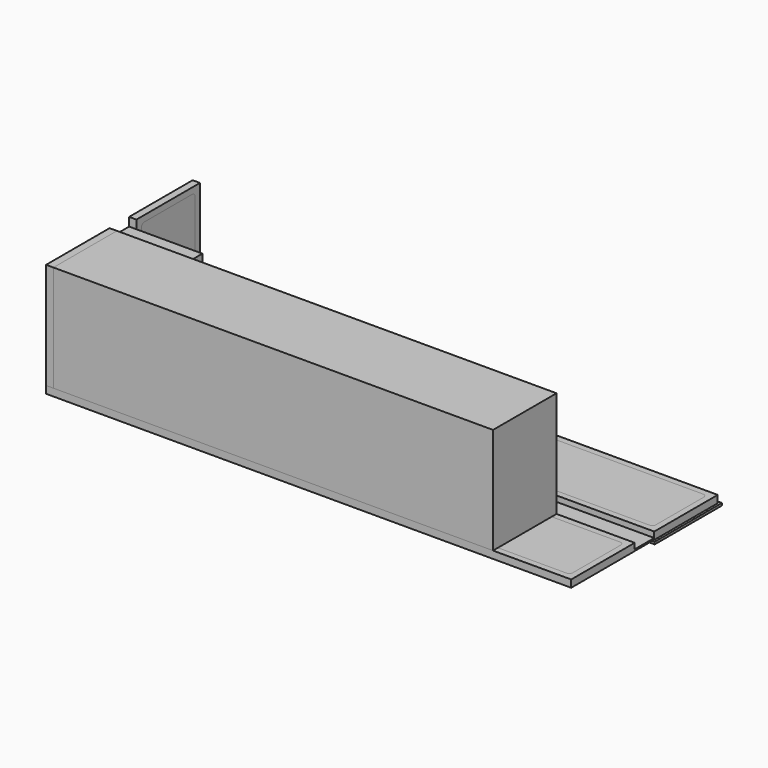
from build123d import *

# Parameters (mm, degrees)
F0_W      = 4300
F0_H      = 650
F1_DEPTH  = 60
F2_R      = 15
F3_DEPTH  = 60.001
F5_DEPTH  = 2
F7_DEPTH  = 190
F9_DEPTH  = 2
F11_DEPTH = 150
F12_W     = 804
F12_H     = 524
F13_DEPTH = 5
F14_W     = 780
F14_H     = 500
F15_DEPTH = 247.001
F16_W     = 800
F16_H     = 520
F17_DEPTH = 5
F18_W     = 777
F18_H     = 497
F19_DEPTH = 25
F20_W     = 700
F20_H     = 350
F21_DEPTH = 25
F22_W     = 360
F22_H     = 235
F23_DEPTH = 120
F26_DEPTH = 2
F28_DEPTH = 30
F29_DEPTH = 30
F30_W     = 4300
F30_H     = 650
F31_DEPTH = 60
F33_DEPTH = 30
F34_DEPTH = 30
F36_DEPTH = 200
F37_R     = 1
F38_W     = 600
F38_H     = 200
F39_DEPTH = 800
F40_W     = 180
F40_H     = 145
F41_DEPTH = 590
F42_W     = 60
F42_H     = 650
F43_DEPTH = 870
F45_DEPTH = 30
F46_DEPTH = 30
F49_W     = 2800
F49_H     = 688
F50_DEPTH = 19
F51_W     = 1538
F51_H     = 688
F52_DEPTH = 19
F54_W     = 650
F54_H     = 60
F55_DEPTH = 19
F57_W     = 650
F57_H     = 870
F58_DEPTH = 3600


with BuildPart() as f1:
    # F0 (on Top) → F1 (new body)
    with BuildSketch(Plane.XY):
        with Locations((2150, 325)):
            Rectangle(F0_W, F0_H)
    extrude(amount=F1_DEPTH)

    # F2 (on face) → F3 (cut, through all)
    with BuildSketch(Plane.XY.offset(60)):
        with BuildLine():
            Line((3278, 525), (2617, 525))
            ThreePointArc((2617, 525), (2601.4436508139, 518.5563491861), (2595, 503))
            Line((2595, 503), (2595, 147))
            ThreePointArc((2595, 147), (2601.4436508139, 131.4436508139), (2617, 125))
            Line((2617, 125), (3278, 125))
            ThreePointArc((3278, 125), (3293.5563491861, 131.4436508139), (3300, 147))
            Line((3300, 147), (3300, 503))
            ThreePointArc((3300, 503), (3293.5563491861, 518.5563491861), (3278, 525))
        make_face()
        with Locations((2785, 565)):
            Circle(F2_R)
    extrude(amount=-F3_DEPTH, mode=Mode.SUBTRACT)

    # F12 (on face) → F13 (cut)
    with BuildSketch(Plane(origin=(0, 0, 0), x_dir=(1, 0, 0), z_dir=(0, 0, -1))):
        with Locations((1402, -325)):
            Rectangle(F12_W, F12_H)
    extrude(amount=-F13_DEPTH, mode=Mode.SUBTRACT)

    # F14 (on face) → F15 (cut, through all)
    with BuildSketch(Plane(origin=(0, 0, 5), x_dir=(1, 0, 0), z_dir=(0, 0, -1))):
        with Locations((1402, -325)):
            Rectangle(F14_W, F14_H)
    extrude(amount=-F15_DEPTH, mode=Mode.SUBTRACT)

    # F27 (on face) → F28 (cut)
    with BuildSketch(Plane.XY.offset(60)):
        with BuildLine():
            Line((3420, 50), (4220, 50))
            ThreePointArc((4220, 50), (4241.2132034356, 58.7867965644), (4250, 80))
            Line((4250, 80), (4250, 570))
            ThreePointArc((4250, 570), (4241.2132034356, 591.2132034356), (4220, 600))
            Line((4220, 600), (3420, 600))
            ThreePointArc((3420, 600), (3398.7867965644, 591.2132034356), (3390, 570))
            Line((3390, 570), (3390, 80))
            ThreePointArc((3390, 80), (3398.7867965644, 58.7867965644), (3420, 50))
        make_face()
        with BuildLine():
            Line((1892, 50), (2475, 50))
            ThreePointArc((2475, 50), (2496.2132034356, 58.7867965644), (2505, 80))
            Line((2505, 80), (2505, 570))
            ThreePointArc((2505, 570), (2496.2132034356, 591.2132034356), (2475, 600))
            Line((2475, 600), (1892, 600))
            ThreePointArc((1892, 600), (1870.7867965644, 591.2132034356), (1862, 570))
            Line((1862, 570), (1862, 80))
            ThreePointArc((1862, 80), (1870.7867965644, 58.7867965644), (1892, 50))
        make_face()
        with BuildLine():
            Line((80, 50), (912, 50))
            ThreePointArc((912, 50), (933.2132034356, 58.7867965644), (942, 80))
            Line((942, 80), (942, 570))
            ThreePointArc((942, 570), (933.2132034356, 591.2132034356), (912, 600))
            Line((912, 600), (80, 600))
            ThreePointArc((80, 600), (58.7867965644, 591.2132034356), (50, 570))
            Line((50, 570), (50, 80))
            ThreePointArc((50, 80), (58.7867965644, 58.7867965644), (80, 50))
        make_face()
    extrude(amount=-F28_DEPTH, mode=Mode.SUBTRACT)


with BuildPart() as f5:
    # F4 (on face) → F5 (new body)
    with BuildSketch(Plane.XY.offset(60)):
        with BuildLine():
            Line((2597, 105), (3298, 105))
            ThreePointArc((3298, 105), (3313.5563491861, 111.4436508139), (3320, 127))
            Line((3320, 127), (3320, 523))
            ThreePointArc((3320, 523), (3313.5563491861, 538.5563491861), (3298, 545))
            Line((3298, 545), (2597, 545))
            ThreePointArc((2597, 545), (2581.4436508139, 538.5563491861), (2575, 523))
            Line((2575, 523), (2575, 127))
            ThreePointArc((2575, 127), (2581.4436508139, 111.4436508139), (2597, 105))
        make_face()
        with BuildLine():
            Line((2775, 503), (2775, 172))
            ThreePointArc((2775, 172), (2768.5563491861, 156.4436508139), (2753, 150))
            Line((2753, 150), (2617, 150))
            ThreePointArc((2617, 150), (2601.4436508139, 156.4436508139), (2595, 172))
            Line((2595, 172), (2595, 503))
            ThreePointArc((2595, 503), (2601.4436508139, 518.5563491861), (2617, 525))
            Line((2617, 525), (2753, 525))
            ThreePointArc((2753, 525), (2768.5563491861, 518.5563491861), (2775, 503))
        make_face(mode=Mode.SUBTRACT)
        with BuildLine():
            ThreePointArc((2817, 125), (2801.4436508139, 131.4436508139), (2795, 147))
            Line((2795, 147), (2795, 503))
            ThreePointArc((2795, 503), (2801.4436508139, 518.5563491861), (2817, 525))
            Line((2817, 525), (3278, 525))
            ThreePointArc((3278, 525), (3293.5563491861, 518.5563491861), (3300, 503))
            Line((3300, 503), (3300, 147))
            ThreePointArc((3300, 147), (3293.5563491861, 131.4436508139), (3278, 125))
            Line((3278, 125), (2817, 125))
        make_face(mode=Mode.SUBTRACT)
    extrude(amount=F5_DEPTH)

    # F6 (on face) → F7 (join)
    with BuildSketch(Plane.XY.offset(62)):
        with BuildLine():
            Line((3302, 147), (3302, 503))
            ThreePointArc((3302, 503), (3294.9705627485, 519.9705627485), (3278, 527))
            Line((3278, 527), (2817, 527))
            ThreePointArc((2817, 527), (2800.0294372515, 519.9705627485), (2793, 503))
            Line((2793, 503), (2793, 147))
            ThreePointArc((2793, 147), (2800.0294372515, 130.0294372515), (2817, 123))
            Line((2817, 123), (3278, 123))
            ThreePointArc((3278, 123), (3294.9705627485, 130.0294372515), (3302, 147))
        make_face()
        with BuildLine():
            Line((2817, 525), (3278, 525))
            ThreePointArc((3278, 525), (3293.5563491861, 518.5563491861), (3300, 503))
            Line((3300, 503), (3300, 147))
            ThreePointArc((3300, 147), (3293.5563491861, 131.4436508139), (3278, 125))
            Line((3278, 125), (2817, 125))
            ThreePointArc((2817, 125), (2801.4436508139, 131.4436508139), (2795, 147))
            Line((2795, 147), (2795, 503))
            ThreePointArc((2795, 503), (2801.4436508139, 518.5563491861), (2817, 525))
        make_face(mode=Mode.SUBTRACT)
    extrude(amount=F7_DEPTH)

    # F8 (on face) → F9 (join)
    with BuildSketch(Plane.XY.offset(252)):
        with BuildLine():
            ThreePointArc((3300, 503), (3293.5563491861, 518.5563491861), (3278, 525))
            Line((3278, 525), (2817, 525))
            ThreePointArc((2817, 525), (2801.4436508139, 518.5563491861), (2795, 503))
            Line((2795, 503), (2795, 147))
            ThreePointArc((2795, 147), (2801.4436508139, 131.4436508139), (2817, 125))
            Line((2817, 125), (3278, 125))
            ThreePointArc((3278, 125), (3293.5563491861, 131.4436508139), (3300, 147))
            Line((3300, 147), (3300, 503))
        make_face()
    extrude(amount=-F9_DEPTH)

    # F10 (on face) → F11 (join)
    with BuildSketch(Plane.XY.offset(62)):
        with BuildLine():
            Line((2595, 503), (2595, 172))
            ThreePointArc((2595, 172), (2601.4436508139, 156.4436508139), (2617, 150))
            Line((2617, 150), (2753, 150))
            ThreePointArc((2753, 150), (2768.5563491861, 156.4436508139), (2775, 172))
            Line((2775, 172), (2775, 503))
            ThreePointArc((2775, 503), (2768.5563491861, 518.5563491861), (2753, 525))
            Line((2753, 525), (2617, 525))
            ThreePointArc((2617, 525), (2601.4436508139, 518.5563491861), (2595, 503))
        make_face()
        with BuildLine():
            ThreePointArc((2773, 172), (2767.1421356237, 157.8578643763), (2753, 152))
            Line((2753, 152), (2617, 152))
            ThreePointArc((2617, 152), (2602.8578643763, 157.8578643763), (2597, 172))
            Line((2597, 172), (2597, 503))
            ThreePointArc((2597, 503), (2602.8578643763, 517.1421356237), (2617, 523))
            Line((2617, 523), (2753, 523))
            ThreePointArc((2753, 523), (2767.1421356237, 517.1421356237), (2773, 503))
            Line((2773, 503), (2773, 172))
        make_face(mode=Mode.SUBTRACT)
    extrude(amount=F11_DEPTH)

    # F25 (on face) → F26 (join)
    with BuildSketch(Plane.XY.offset(212)):
        with BuildLine():
            Line((2617, 150), (2753, 150))
            ThreePointArc((2753, 150), (2768.5563491861, 156.4436508139), (2775, 172))
            Line((2775, 172), (2775, 503))
            ThreePointArc((2775, 503), (2768.5563491861, 518.5563491861), (2753, 525))
            Line((2753, 525), (2617, 525))
            ThreePointArc((2617, 525), (2601.4436508139, 518.5563491861), (2595, 503))
            Line((2595, 503), (2595, 172))
            ThreePointArc((2595, 172), (2601.4436508139, 156.4436508139), (2617, 150))
        make_face()
    extrude(amount=F26_DEPTH)


with BuildPart() as f17:
    # F16 (on face) → F17 (new body)
    with BuildSketch(Plane(origin=(0, 0, 0), x_dir=(1, 0, 0), z_dir=(0, 0, -1))):
        with Locations((1402, -325)):
            Rectangle(F16_W, F16_H)
    extrude(amount=-F17_DEPTH)

    # F18 (on face) → F19 (join)
    with BuildSketch(Plane.XY.offset(5)):
        with Locations((1402, 325)):
            Rectangle(F18_W, F18_H)
    extrude(amount=F19_DEPTH)

    # F20 (on face) → F21 (join)
    with BuildSketch(Plane.XY.offset(30)):
        with Locations((1403.5, 358.5)):
            Rectangle(F20_W, F20_H)
    extrude(amount=F21_DEPTH)

    # F22 (on face) → F23 (join)
    with BuildSketch(Plane.XY.offset(55)):
        with Locations((1273.5, 376)):
            Rectangle(F22_W, F22_H)
    extrude(amount=F23_DEPTH)


with BuildPart() as f29:
    # F27 (on face) → F29 (new body)
    with BuildSketch(Plane.XY.offset(60)):
        with BuildLine():
            Line((3420, 50), (4220, 50))
            ThreePointArc((4220, 50), (4241.2132034356, 58.7867965644), (4250, 80))
            Line((4250, 80), (4250, 570))
            ThreePointArc((4250, 570), (4241.2132034356, 591.2132034356), (4220, 600))
            Line((4220, 600), (3420, 600))
            ThreePointArc((3420, 600), (3398.7867965644, 591.2132034356), (3390, 570))
            Line((3390, 570), (3390, 80))
            ThreePointArc((3390, 80), (3398.7867965644, 58.7867965644), (3420, 50))
        make_face()
    extrude(amount=-F29_DEPTH)


with BuildPart() as f29b:
    # F27 (on face) → F29, piece 2 (new body)
    with BuildSketch(Plane.XY.offset(60)):
        with BuildLine():
            Line((1892, 50), (2475, 50))
            ThreePointArc((2475, 50), (2496.2132034356, 58.7867965644), (2505, 80))
            Line((2505, 80), (2505, 570))
            ThreePointArc((2505, 570), (2496.2132034356, 591.2132034356), (2475, 600))
            Line((2475, 600), (1892, 600))
            ThreePointArc((1892, 600), (1870.7867965644, 591.2132034356), (1862, 570))
            Line((1862, 570), (1862, 80))
            ThreePointArc((1862, 80), (1870.7867965644, 58.7867965644), (1892, 50))
        make_face()
    extrude(amount=-F29_DEPTH)


with BuildPart() as f29c:
    # F27 (on face) → F29, piece 3 (new body)
    with BuildSketch(Plane.XY.offset(60)):
        with BuildLine():
            Line((80, 50), (912, 50))
            ThreePointArc((912, 50), (933.2132034356, 58.7867965644), (942, 80))
            Line((942, 80), (942, 570))
            ThreePointArc((942, 570), (933.2132034356, 591.2132034356), (912, 600))
            Line((912, 600), (80, 600))
            ThreePointArc((80, 600), (58.7867965644, 591.2132034356), (50, 570))
            Line((50, 570), (50, 80))
            ThreePointArc((50, 80), (58.7867965644, 58.7867965644), (80, 50))
        make_face()
    extrude(amount=-F29_DEPTH)


with BuildPart() as f31:
    # F30 (on face) → F31 (new body)
    with BuildSketch(Plane(origin=(0, 0, 0), x_dir=(1, 0, 0), z_dir=(0, 0, -1))):
        with Locations((2150, -1175)):
            Rectangle(F30_W, F30_H)
    extrude(amount=-F31_DEPTH)

    # F32 (on face) → F33 (cut)
    with BuildSketch(Plane.XY.offset(60)):
        with BuildLine():
            Line((4220, 1450), (80, 1450))
            ThreePointArc((80, 1450), (58.7867965644, 1441.2132034356), (50, 1420))
            Line((50, 1420), (50, 930))
            ThreePointArc((50, 930), (58.7867965644, 908.7867965644), (80, 900))
            Line((80, 900), (4220, 900))
            ThreePointArc((4220, 900), (4241.2132034356, 908.7867965644), (4250, 930))
            Line((4250, 930), (4250, 1420))
            ThreePointArc((4250, 1420), (4241.2132034356, 1441.2132034356), (4220, 1450))
        make_face()
    extrude(amount=-F33_DEPTH, mode=Mode.SUBTRACT)


with BuildPart() as f34:
    # F32 (on face) → F34 (new body)
    with BuildSketch(Plane.XY.offset(60)):
        with BuildLine():
            Line((4220, 1450), (80, 1450))
            ThreePointArc((80, 1450), (58.7867965644, 1441.2132034356), (50, 1420))
            Line((50, 1420), (50, 930))
            ThreePointArc((50, 930), (58.7867965644, 908.7867965644), (80, 900))
            Line((80, 900), (4220, 900))
            ThreePointArc((4220, 900), (4241.2132034356, 908.7867965644), (4250, 930))
            Line((4250, 930), (4250, 1420))
            ThreePointArc((4250, 1420), (4241.2132034356, 1441.2132034356), (4220, 1450))
        make_face()
    extrude(amount=-F34_DEPTH)


with BuildPart() as f36:
    # F35 (on face) → F36 (new body)
    with BuildSketch(Plane(origin=(0, 650, 0), x_dir=(-1, 0, 0), z_dir=(0, 1, 0))):
        Polygon((0, 0), (0, 60.8741641045), (-13.5, 60.8741641045), (-13.5, 13.5), (-4300, 13.5), (-4300, 0), align=None)
    extrude(amount=F36_DEPTH)

    # F37
    f37_edges = [f36.edges().sort_by_distance(p)[0] for p in [
        (2150, 850, 0),
        (0, 850, 30.437082),
        (0, 750, 0),
        (2150, 650, 0),
        (0, 650, 30.437082),
        (4300, 750, 0),
    ]]
    fillet(f37_edges, radius=F37_R)


with BuildPart() as f39:
    # F38 (on face) → F39 (new body)
    with BuildSketch(Plane.XY.offset(60)):
        with Locations((300, 750)):
            Rectangle(F38_W, F38_H)
    extrude(amount=F39_DEPTH)

    # F40 (on face) → F41 (cut)
    with BuildSketch(Plane(origin=(0, 0, 0), x_dir=(0, -1, 0), z_dir=(-1, 0, 0))):
        with Locations((-750, 148.3741641045)):
            Rectangle(F40_W, F40_H)
        with Locations((-750, 303.3741641045)):
            Rectangle(F40_W, F40_H)
        with Locations((-750, 458.3741641045)):
            Rectangle(F40_W, F40_H)
        with Locations((-750, 613.3741641045)):
            Rectangle(F40_W, F40_H)
        with Locations((-750, 768.3741641045)):
            Rectangle(F40_W, F40_H)
    extrude(amount=-F41_DEPTH, mode=Mode.SUBTRACT)


with BuildPart() as f43:
    # F42 (on face) → F43 (new body)
    with BuildSketch(Plane.XY.offset(60)):
        with Locations((30, 325)):
            Rectangle(F42_W, F42_H)
    extrude(amount=F43_DEPTH)

    # F44 (on face) → F45 (cut)
    with BuildSketch(Plane.YZ.offset(60)):
        with BuildLine():
            Line((570, 880), (80, 880))
            ThreePointArc((80, 880), (58.7867965644, 871.2132034356), (50, 850))
            Line((50, 850), (50, 140))
            ThreePointArc((50, 140), (58.7867965644, 118.7867965644), (80, 110))
            Line((80, 110), (570, 110))
            ThreePointArc((570, 110), (591.2132034356, 118.7867965644), (600, 140))
            Line((600, 140), (600, 850))
            ThreePointArc((600, 850), (591.2132034356, 871.2132034356), (570, 880))
        make_face()
    extrude(amount=-F45_DEPTH, mode=Mode.SUBTRACT)


with BuildPart() as f46:
    # F44 (on face) → F46 (new body)
    with BuildSketch(Plane.YZ.offset(60)):
        with BuildLine():
            Line((570, 880), (80, 880))
            ThreePointArc((80, 880), (58.7867965644, 871.2132034356), (50, 850))
            Line((50, 850), (50, 140))
            ThreePointArc((50, 140), (58.7867965644, 118.7867965644), (80, 110))
            Line((80, 110), (570, 110))
            ThreePointArc((570, 110), (591.2132034356, 118.7867965644), (600, 140))
            Line((600, 140), (600, 850))
            ThreePointArc((600, 850), (591.2132034356, 871.2132034356), (570, 880))
        make_face()
    extrude(amount=-F46_DEPTH)


with BuildPart() as f47_1:
    # F47: copy of F43
    add(f43.part.moved(Location((0, 850, 0))))


with BuildPart() as f48_1:
    # F48: copy of F46
    add(f46.part.moved(Location((0, 850, 0))))


with BuildPart() as f50:
    # F49 (on face) → F50 (new body)
    with BuildSketch(Plane(origin=(0, 0, 0), x_dir=(1, 0, 0), z_dir=(0, 0, -1))):
        with Locations((2919, -1175)):
            Rectangle(F49_W, F49_H)
    extrude(amount=F50_DEPTH)


with BuildPart() as f52:
    # F51 (on face) → F52 (new body)
    with BuildSketch(Plane(origin=(0, 0, 0), x_dir=(1, 0, 0), z_dir=(0, 0, -1))):
        with Locations((750, -1175)):
            Rectangle(F51_W, F51_H)
    extrude(amount=F52_DEPTH)


with BuildPart() as f55:
    # F54 (on face) → F55 (new body)
    with BuildSketch(Plane(origin=(0, 0, 0), x_dir=(0, -1, 0), z_dir=(-1, 0, 0))):
        with Locations((-1175, 30)):
            Rectangle(F54_W, F54_H)
    extrude(amount=F55_DEPTH)


with BuildPart() as f58:
    # F57 (on face) → F58 (new body)
    with BuildSketch(Plane.YZ.offset(60)):
        with Locations((325, 495)):
            Rectangle(F57_W, F57_H)
    extrude(amount=F58_DEPTH)


solid = Compound([f1.part, f5.part, f17.part, f29.part, f29b.part, f29c.part, f31.part, f34.part, f36.part, f39.part, f43.part, f46.part, f47_1.part, f48_1.part, f50.part, f52.part, f55.part, f58.part])
